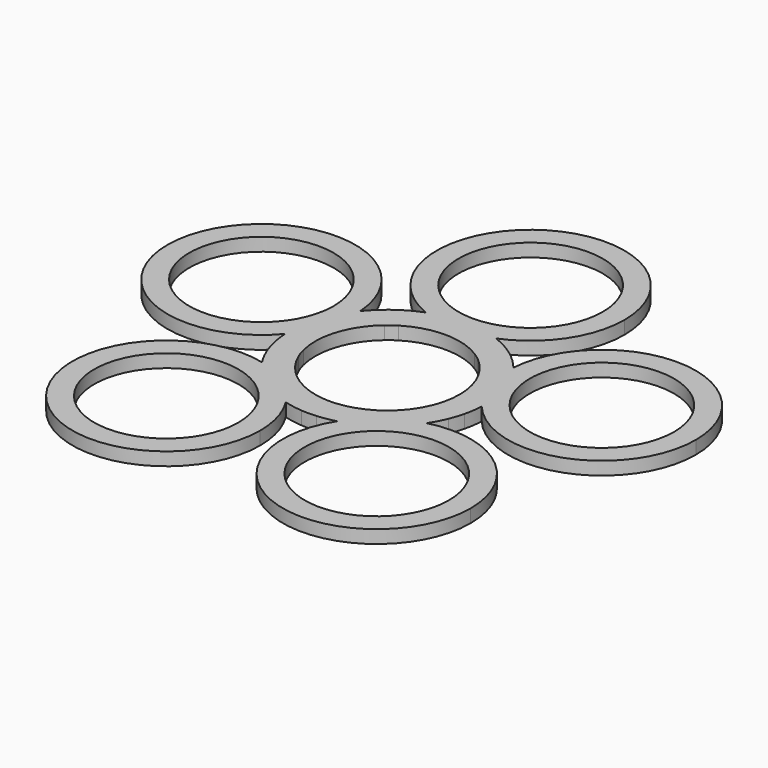
from build123d import *

# Parameters (mm, degrees)
F0_R     = 11
F1_DEPTH = 2


with BuildPart() as f1:
    # F0 (on Top) → F1 (new body)
    with BuildSketch(Plane.XY):
        with BuildLine():
            ThreePointArc((9.714801, 11.429027), (8.816779, 12.135255), (7.867612, 12.771088))
            ThreePointArc((7.867612, 12.771088), (6.635981, 13.452277), (5.345926, 14.01503))
            ThreePointArc((5.345926, 14.01503), (0, 12.979545), (-5.345926, 14.01503))
            ThreePointArc((-5.345926, 14.01503), (-6.635981, 13.452277), (-7.867612, 12.771088))
            ThreePointArc((-7.867612, 12.771088), (-8.816779, 12.135255), (-9.714801, 11.429027))
            ThreePointArc((-9.714801, 11.429027), (-10.743245, 10.468175), (-11.677104, 9.41516))
            ThreePointArc((-11.677104, 9.41516), (-11.651927, 8.925494), (-11.643532, 8.435253))
            ThreePointArc((-11.643532, 8.435253), (-12.503758, 3.547247), (-14.981068, -0.753395))
            ThreePointArc((-14.981068, -0.753395), (-14.844507, -2.154211), (-14.577252, -3.53606))
            ThreePointArc((-14.577252, -3.53606), (-14.265848, -4.635255), (-13.871689, -5.707561))
            ThreePointArc((-13.871689, -5.707561), (-13.275671, -6.982589), (-12.562773, -8.196142))
            ThreePointArc((-12.562773, -8.196142), (-7.629185, -10.500672), (-3.912884, -14.480654))
            ThreePointArc((-3.912884, -14.480654), (-2.538429, -14.783652), (-1.141625, -14.956493))
            ThreePointArc((-1.141625, -14.956493), (0, -15), (1.141625, -14.956493))
            ThreePointArc((1.141625, -14.956493), (2.538429, -14.783652), (3.912884, -14.480654))
            ThreePointArc((3.912884, -14.480654), (7.629185, -10.500672), (12.562773, -8.196142))
            ThreePointArc((12.562773, -8.196142), (13.275671, -6.982589), (13.871689, -5.707561))
            ThreePointArc((13.871689, -5.707561), (14.265848, -4.635255), (14.577252, -3.53606))
            ThreePointArc((14.577252, -3.53606), (14.844507, -2.15421), (14.981068, -0.753395))
            ThreePointArc((14.981068, -0.753395), (12.344281, 4.0109), (11.677104, 9.41516))
            ThreePointArc((11.677104, 9.41516), (10.743245, 10.468175), (9.714801, 11.429027))
        make_face()
        with BuildLine():
            ThreePointArc((-5.769582, 9.365464), (0, 11), (5.769582, 9.365464))
            ThreePointArc((5.769582, 9.365464), (6.465638, 8.899187), (7.124187, 8.381286))
            ThreePointArc((7.124187, 8.381286), (10.461622, 3.399187), (10.689985, -2.593111))
            ThreePointArc((10.689985, -2.593111), (10.461622, -3.399187), (10.172572, -4.185545))
            ThreePointArc((10.172572, -4.185545), (6.465638, -8.899187), (0.837192, -10.968095))
            ThreePointArc((0.837192, -10.968095), (0, -11), (-0.837192, -10.968095))
            ThreePointArc((-0.837192, -10.968095), (-6.465638, -8.899187), (-10.172572, -4.185545))
            ThreePointArc((-10.172572, -4.185545), (-10.461622, -3.399187), (-10.689985, -2.593111))
            ThreePointArc((-10.689985, -2.593111), (-10.461622, 3.399187), (-7.124187, 8.381286))
            ThreePointArc((-7.124187, 8.381286), (-6.465638, 8.899187), (-5.769582, 9.365464))
        make_face(mode=Mode.SUBTRACT)
        with BuildLine():
            ThreePointArc((-5.345926, 14.01503), (0, 12.979545), (5.345926, 14.01503))
            ThreePointArc((5.345926, 14.01503), (11.864471, 19.28298), (14.317507, 27.297052))
            ThreePointArc((14.317507, 27.297052), (-8.014071, 39.161522), (-5.345926, 14.01503))
        make_face()
        with Locations((0, 27.297052)):
            Circle(F0_R, mode=Mode.SUBTRACT)
        with BuildLine():
            ThreePointArc((40.278546, 8.435253), (26.45128, 22.744364), (11.677104, 9.41516))
            ThreePointArc((11.677104, 9.41516), (12.344281, 4.0109), (14.981068, -0.753395))
            ThreePointArc((14.981068, -0.753395), (30.849044, -5.022028), (40.278546, 8.435253))
        make_face()
        with Locations((25.961039, 8.435253)):
            Circle(F0_R, mode=Mode.SUBTRACT)
        with BuildLine():
            ThreePointArc((-11.643532, 8.435253), (-11.651927, 8.925494), (-11.677104, 9.41516))
            ThreePointArc((-11.677104, 9.41516), (-39.577797, 12.859606), (-14.981068, -0.753395))
            ThreePointArc((-14.981068, -0.753395), (-12.503758, 3.547247), (-11.643532, 8.435253))
        make_face()
        with Locations((-25.961039, 8.435253)):
            Circle(F0_R, mode=Mode.SUBTRACT)
        with BuildLine():
            ThreePointArc((30.362311, -22.083779), (24.852102, -10.795621), (12.562773, -8.196142))
            ThreePointArc((12.562773, -8.196142), (7.629185, -10.500672), (3.912884, -14.480654))
            ThreePointArc((3.912884, -14.480654), (12.089293, -35.844045), (30.362311, -22.083779))
        make_face()
        with Locations((16.044804, -22.083779)):
            Circle(F0_R, mode=Mode.SUBTRACT)
        with BuildLine():
            ThreePointArc((-3.912884, -14.480654), (-7.629185, -10.500672), (-12.562773, -8.196142))
            ThreePointArc((-12.562773, -8.196142), (-27.332962, -30.891077), (-1.727297, -22.083779))
            ThreePointArc((-1.727297, -22.083779), (-2.284538, -18.128267), (-3.912884, -14.480654))
        make_face()
        with Locations((-16.044804, -22.083779)):
            Circle(F0_R, mode=Mode.SUBTRACT)
    extrude(amount=F1_DEPTH)


solid = f1.part
